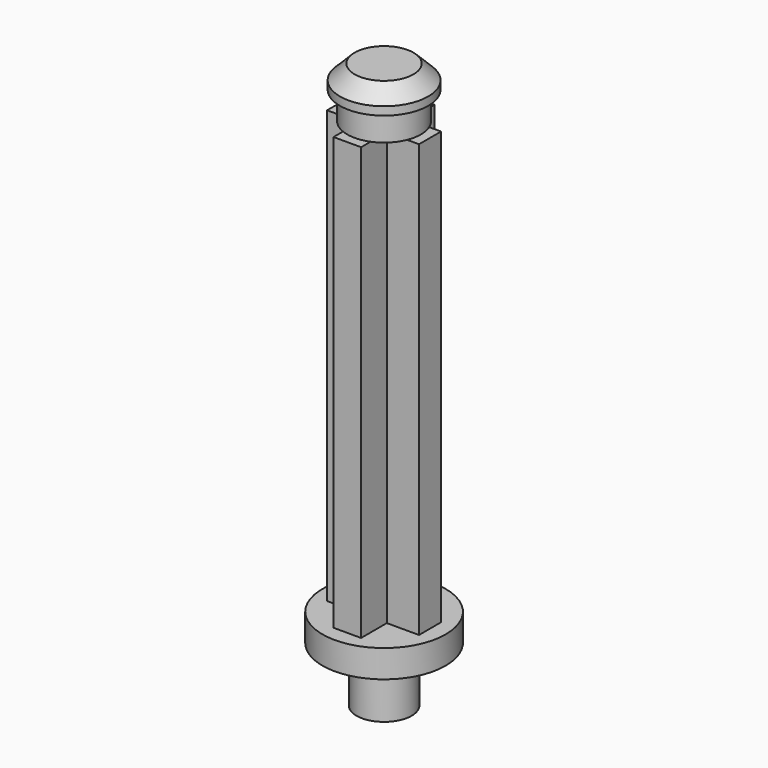
from build123d import *

# Parameters (mm, degrees)
F0_R      = 2
F1_DEPTH  = 1.5
F2_R      = 2.4
F2_R_2    = 2
F3_DEPTH  = 1.25
F4_SIZE   = 0.8
F6_DEPTH  = 23.5
F7_R      = 3.35
F8_DEPTH  = 1.5
F9_R      = 1.5
F10_DEPTH = 3


with BuildPart() as f1:
    # F0 (on Top) → F1 (new body)
    with BuildSketch(Plane.XY):
        Circle(F0_R)
    extrude(amount=F1_DEPTH)

    # F2 (on face) → F3 (join)
    with BuildSketch(Plane.XY.offset(1.5)):
        Circle(F2_R)
        Circle(F2_R_2, mode=Mode.SUBTRACT)
        Circle(F2_R_2)
    extrude(amount=F3_DEPTH)

    # F4
    f4_edges = [f1.edges().sort_by_distance(p)[0] for p in [
        (-2.4, 0, 2.75),
    ]]
    chamfer(f4_edges, length=F4_SIZE)

    # F5 (on face) → F6 (join)
    with BuildSketch(Plane(origin=(0, 0, 0), x_dir=(1, 0, 0), z_dir=(0, 0, -1))):
        with BuildLine():
            ThreePointArc((0.75, -1.85405), (0, -2), (-0.75, -1.85405))
            Line((-0.75, -1.85405), (-0.75, -2.5))
            Line((-0.75, -2.5), (0, -2.5))
            Line((0, -2.5), (0.75, -2.5))
            Line((0.75, -2.5), (0.75, -1.85405))
        make_face()
        with BuildLine():
            Line((-2.5, 0.75), (-2.5, 0))
            Line((-2.5, 0), (-2.5, -0.75))
            Line((-2.5, -0.75), (-1.85405, -0.75))
            ThreePointArc((-1.85405, -0.75), (-2, 0), (-1.85405, 0.75))
            Line((-1.85405, 0.75), (-2.5, 0.75))
        make_face()
        with BuildLine():
            Line((-0.75, 2.5), (-0.75, 1.85405))
            ThreePointArc((-0.75, 1.85405), (0, 2), (0.75, 1.85405))
            Line((0.75, 1.85405), (0.75, 2.5))
            Line((0.75, 2.5), (0, 2.5))
            Line((0, 2.5), (-0.75, 2.5))
        make_face()
        with BuildLine():
            ThreePointArc((2, 0), (1.963173, -0.382035), (1.85405, -0.75))
            Line((1.85405, -0.75), (2.5, -0.75))
            Line((2.5, -0.75), (2.5, 0))
            Line((2.5, 0), (2.5, 0.75))
            Line((2.5, 0.75), (1.85405, 0.75))
            ThreePointArc((1.85405, 0.75), (1.963173, 0.382035), (2, 0))
        make_face()
        with BuildLine():
            ThreePointArc((-1.85405, 0.75), (-2, 0), (-1.85405, -0.75))
            Line((-1.85405, -0.75), (-0.75, -0.75))
            Line((-0.75, -0.75), (-0.75, -1.85405))
            ThreePointArc((-0.75, -1.85405), (0, -2), (0.75, -1.85405))
            Line((0.75, -1.85405), (0.75, -0.75))
            Line((0.75, -0.75), (1.85405, -0.75))
            ThreePointArc((1.85405, -0.75), (1.963173, -0.382035), (2, 0))
            ThreePointArc((2, 0), (1.963173, 0.382035), (1.85405, 0.75))
            Line((1.85405, 0.75), (0.75, 0.75))
            Line((0.75, 0.75), (0.75, 1.85405))
            ThreePointArc((0.75, 1.85405), (0, 2), (-0.75, 1.85405))
            Line((-0.75, 1.85405), (-0.75, 0.75))
            Line((-0.75, 0.75), (-1.85405, 0.75))
        make_face()
    extrude(amount=F6_DEPTH)

    # F7 (on face) → F8 (join)
    with BuildSketch(Plane(origin=(0, 0, -23.5), x_dir=(1, 0, 0), z_dir=(0, 0, -1))):
        Circle(F7_R)
        Polygon((0.75, -2.5), (-0.75, -2.5), (-0.75, -0.75), (-2.5, -0.75), (-2.5, 0.75), (-0.75, 0.75), (-0.75, 2.5), (0.75, 2.5), (0.75, 0.75), (2.5, 0.75), (2.5, -0.75), (0.75, -0.75), align=None, mode=Mode.SUBTRACT)
        Polygon((-0.75, -0.75), (-0.75, -2.5), (0.75, -2.5), (0.75, -0.75), (2.5, -0.75), (2.5, 0.75), (0.75, 0.75), (0.75, 2.5), (-0.75, 2.5), (-0.75, 0.75), (-2.5, 0.75), (-2.5, -0.75), align=None)
    extrude(amount=F8_DEPTH)

    # F9 (on face) → F10 (join)
    with BuildSketch(Plane(origin=(0, 0, -25), x_dir=(1, 0, 0), z_dir=(0, 0, -1))):
        Circle(F9_R)
    extrude(amount=F10_DEPTH)


solid = f1.part
